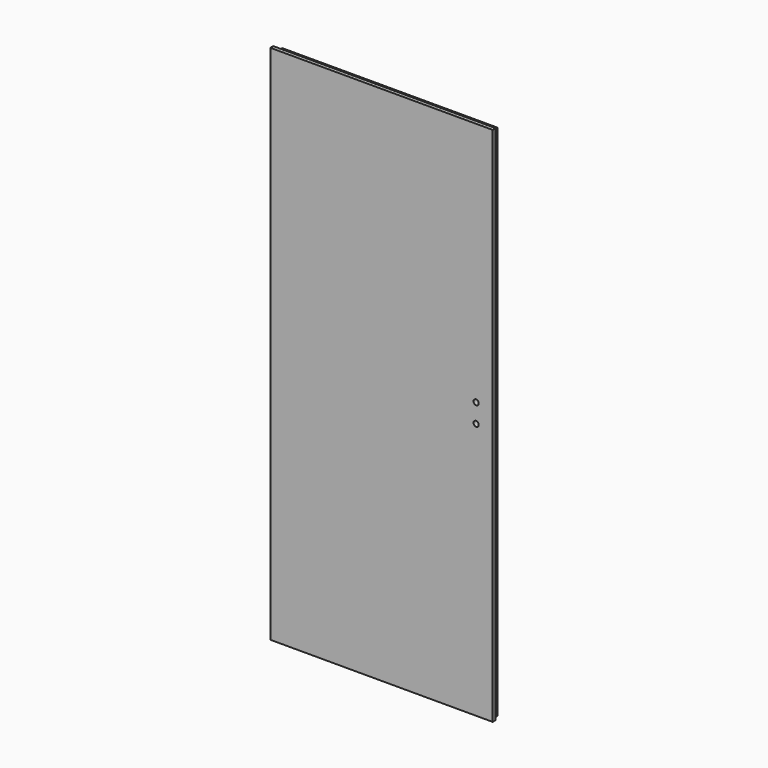
from build123d import *

# Parameters (mm, degrees)
F1_DEPTH = 991.5
F2_W     = 820
F2_H     = 26
F3_DEPTH = 13
F4_R     = 10
F5_DEPTH = 40


with BuildPart() as f1:
    # F0 (on Top) → F1 (new body, symmetric)
    with BuildSketch(Plane.XY):
        Polygon((-423, -6), (-423, -20), (423, -20), (423, -6), (410, -6), (410, 20), (-410, 20), (-410, -6), align=None)
    extrude(amount=F1_DEPTH, both=True)

    # F2 (on face) → F3 (cut)
    with BuildSketch(Plane.XY.offset(991.5)):
        with Locations((0, 7)):
            Rectangle(F2_W, F2_H)
    extrude(amount=-F3_DEPTH, mode=Mode.SUBTRACT)

    # F4 (on face) → F5 (cut, through all)
    with BuildSketch(Plane(origin=(0, 20, 0), x_dir=(-1, 0, 0), z_dir=(0, 1, 0))):
        with Locations((-360, 58.5)):
            Circle(F4_R)
        with Locations((-360, -13.5)):
            Circle(F4_R)
    extrude(amount=-F5_DEPTH, mode=Mode.SUBTRACT)


solid = f1.part
